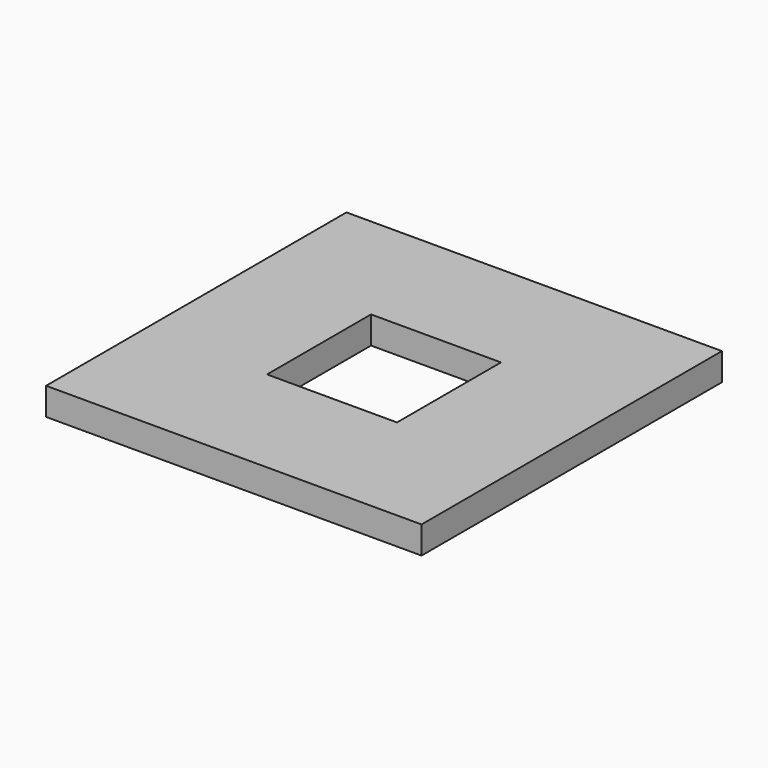
from build123d import *

# Parameters (mm, degrees)
SKETCH_W   = 26
SKETCH_H   = 26
SKETCH_W_2 = 9
SKETCH_H_2 = 9
PAD_DEPTH  = 1.9


with BuildPart() as part:
    # Sketch → Pad (new body)
    with BuildSketch(Plane.XY):
        Rectangle(SKETCH_W, SKETCH_H)
        Rectangle(SKETCH_W_2, SKETCH_H_2, mode=Mode.SUBTRACT)
    extrude(amount=PAD_DEPTH)


solid = part.part
